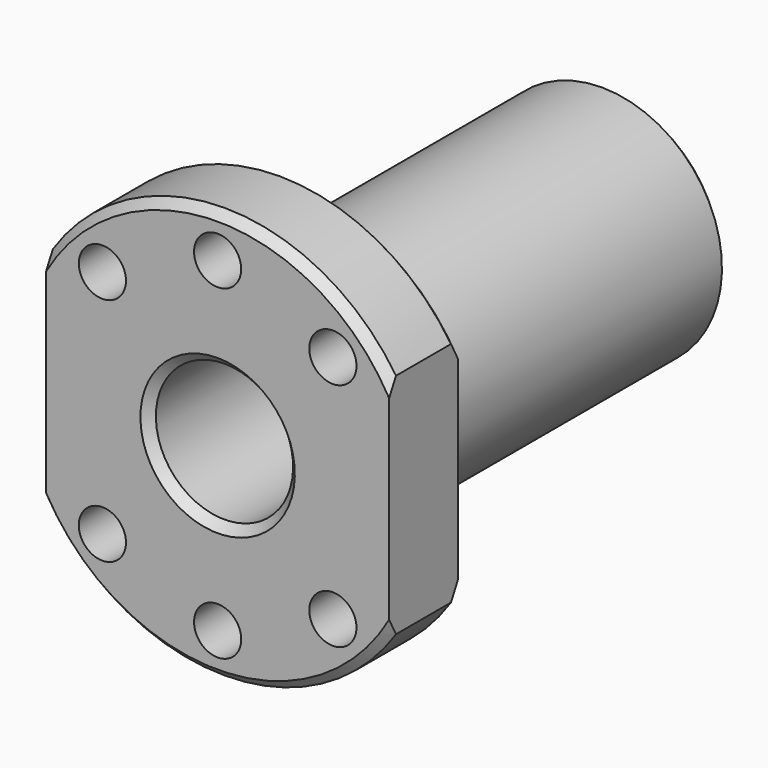
from build123d import *

# Parameters (mm, degrees)
F2_W     = 73.8781243563
F2_H     = 160.1297496091
F2_W_2   = 40
F2_H_2   = 126.2516252528
F3_DEPTH = 25
F4_R     = 2.75
F5_DEPTH = 25
F6_SIZE  = 1


with BuildPart() as f1:
    # F0 (on Right) → F1 (revolve)
    with BuildSketch(Plane.YZ):
        Polygon((10, 24), (0, 24), (0, 8), (57, 8), (57, 14), (10, 14), align=None)
    revolve(axis=Axis((0, 17.6531788457, 0), (0, 1, 0)))

    # F2 (on face) → F3 (cut)
    with BuildSketch(Plane.XZ):
        Rectangle(F2_W, F2_H)
        Rectangle(F2_W_2, F2_H_2, mode=Mode.SUBTRACT)
    extrude(amount=-F3_DEPTH, mode=Mode.SUBTRACT)

    # F4 (on face) → F5 (cut)
    with BuildSketch(Plane.XZ):
        with Locations((0, 19)):
            Circle(F4_R)
        with Locations((-13.4350288425, 13.4350288425)):
            Circle(F4_R)
        with Locations((-13.4350288425, -13.4350288425)):
            Circle(F4_R)
        with Locations((0, -19)):
            Circle(F4_R)
        with Locations((13.4350288425, -13.4350288425)):
            Circle(F4_R)
        with Locations((13.4350288425, 13.4350288425)):
            Circle(F4_R)
    extrude(amount=-F5_DEPTH, mode=Mode.SUBTRACT)

    # F6
    f6_edges = [f1.edges().sort_by_distance(p)[0] for p in [
        (0, 0, -8),
        (0, 57, -8),
        (0, 28.5, 8),
        (0, 57, -14),
        (0, 0, 24),
        (0, 0, -24),
        (0, 10, 24),
        (0, 10, -24),
    ]]
    chamfer(f6_edges, length=F6_SIZE)


solid = f1.part
